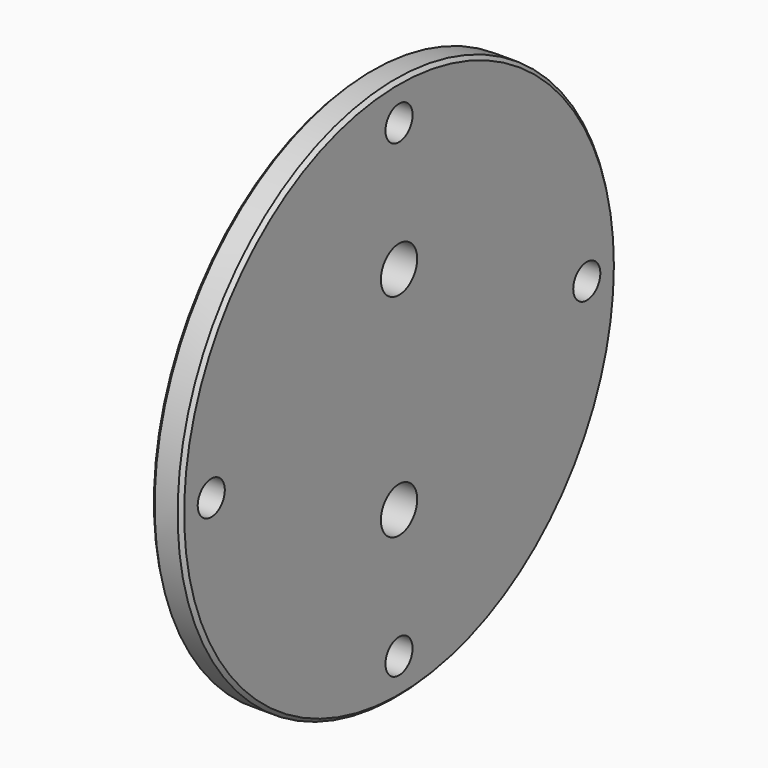
from build123d import *

# Parameters (mm, degrees)
F0_R     = 57.15
F1_DEPTH = 6.35
F2_R     = 42.926
F3_DEPTH = 4.7752
F4_SIZE  = 0.762
F6_D     = 7.112
F8_D     = 9.525


with BuildPart() as f1:
    # F0 (on Right) → F1 (new body)
    with BuildSketch(Plane.YZ):
        Circle(F0_R)
    extrude(amount=F1_DEPTH)

    # F2 (on face) → F3 (join)
    with BuildSketch(Plane(origin=(0, 0, 0), x_dir=(0, -1, 0), z_dir=(-1, 0, 0))):
        Circle(F2_R)
    extrude(amount=F3_DEPTH)

    # F4
    f4_edges = [f1.edges().sort_by_distance(p)[0] for p in [
        (6.35, -57.15, 0),
        (0, -57.15, 0),
        (-4.7752, 42.926, 0),
    ]]
    chamfer(f4_edges, length=F4_SIZE)

    # F6 (through all)
    with Locations(Plane.YZ.offset(6.35)):
        with Locations((0, 49.276), (49.276, 0), (0, -49.276), (-49.276, 0)):
            Hole(F6_D / 2)

    # F8 (through all)
    with Locations(Plane.YZ.offset(6.35)):
        with Locations((0, 22.225), (0, -22.225)):
            Hole(F8_D / 2)


solid = f1.part
